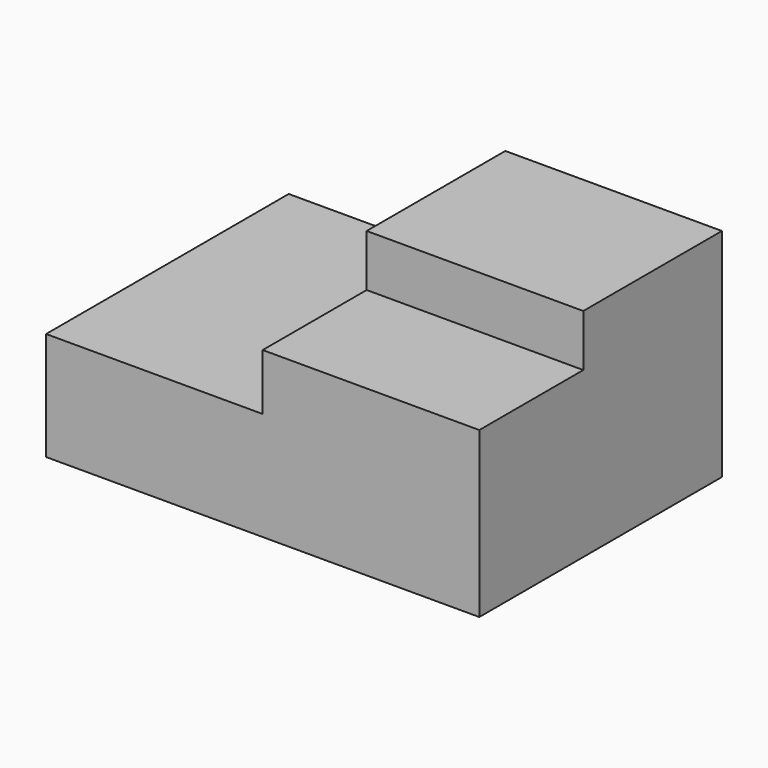
from build123d import *

# Parameters (mm, degrees)
F0_W     = 2540
F0_H     = 1270
F1_DEPTH = 1778
F2_W     = 1270
F2_H     = 304.8
F3_DEPTH = 762
F5_DEPTH = 1778


with BuildPart() as f1:
    # F0 (on Front) → F1 (new body)
    with BuildSketch(Plane.XZ):
        with Locations((1270, 635)):
            Rectangle(F0_W, F0_H)
    extrude(amount=F1_DEPTH)

    # F2 (on face) → F3 (cut)
    with BuildSketch(Plane.XZ.offset(1778)):
        with Locations((1905, 1117.6)):
            Rectangle(F2_W, F2_H)
    extrude(amount=-F3_DEPTH, mode=Mode.SUBTRACT)

    # F4 (on face) → F5 (cut)
    with BuildSketch(Plane.XZ.offset(1778)):
        Polygon((1270, 635), (1270, 965.2), (1270, 1270), (0, 1270), (0, 635), align=None)
    extrude(amount=-F5_DEPTH, mode=Mode.SUBTRACT)


solid = f1.part
